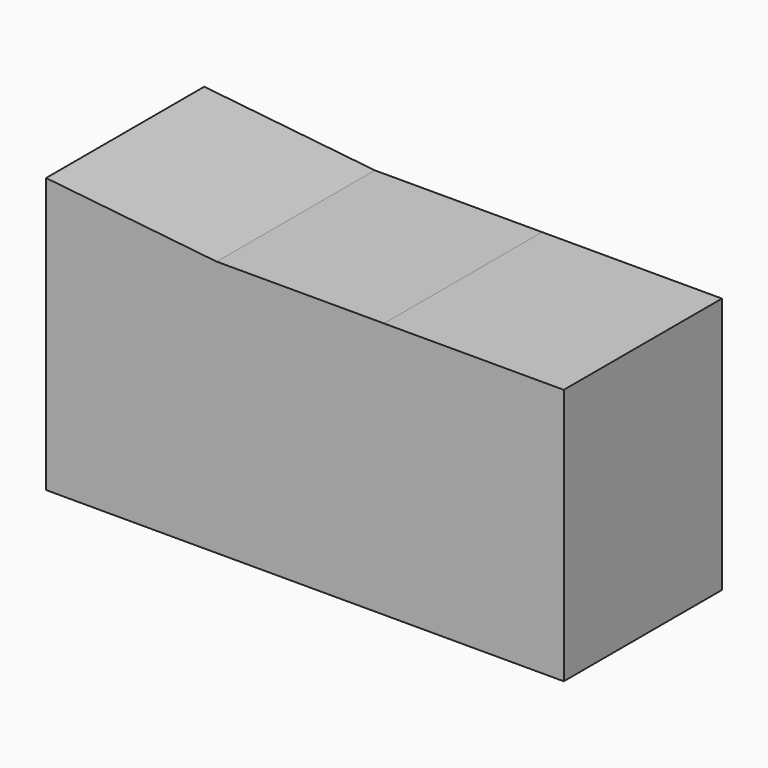
from build123d import *

# Parameters (mm, degrees)
F0_W     = 21.91495
F0_H     = 6.17824
F0_W_2   = 23.099592
F0_H_2   = 6.216454
F0_H_3   = 26.751835
F2_DEPTH = 25.4


with BuildPart() as f2:
    # F0 (on Front) → F2 (new body)
    with BuildSketch(Plane.XZ):
        Polygon((-25.084568, 6.17824), (-25.084568, 32.968289), (-46.999518, 35.29929), (-46.999518, 6.17824), align=None)
        Polygon((-3.58351, 32.968289), (-25.084568, 32.968289), (-25.084568, 6.17824), (-25.084568, 0), (-3.58351, 0), (-3.58351, 6.216454), align=None)
        with Locations((-36.042043, 3.08912)):
            Rectangle(F0_W, F0_H)
        with Locations((7.966286, 3.108227)):
            Rectangle(F0_W_2, F0_H_2)
        with Locations((7.966286, 19.592371)):
            Rectangle(F0_W_2, F0_H_3)
    extrude(amount=F2_DEPTH)


solid = f2.part
